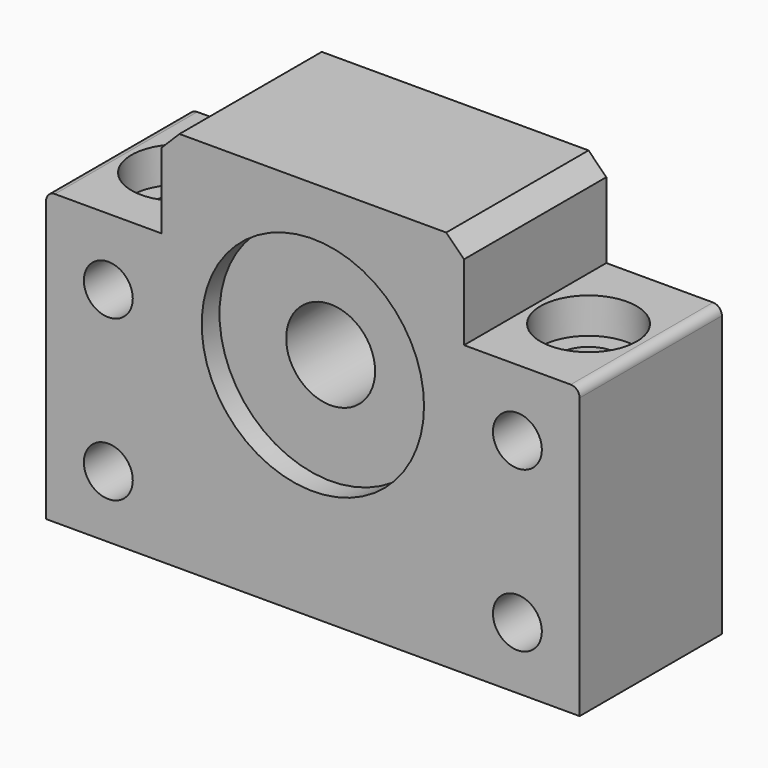
from build123d import *

# Parameters (mm, degrees)
F0_R     = 2.75
F0_R_2   = 12.5
F1_DEPTH = 10
F0_R_3   = 5
F2_DEPTH = 7.5
F3_SIZE  = 2
F4_R     = 1
F5_R     = 3.3
F6_DEPTH = 32.5
F7_R     = 5.4
F7_R_2   = 3.3
F8_DEPTH = 4


with BuildPart() as f1:
    # F0 (on Front) → F1 (new body, symmetric)
    with BuildSketch(Plane.XZ):
        Polygon((-17, 25.6028276384), (-30, 25.6028276384), (-30, -6.8971723616), (30, -6.8971723616), (30, 25.6028276384), (17, 25.6028276384), (17, 36.1028276384), (-17, 36.1028276384), align=None)
        with Locations((-23, 0.1028276384)):
            Circle(F0_R, mode=Mode.SUBTRACT)
        with Locations((23, 0.1028276384)):
            Circle(F0_R, mode=Mode.SUBTRACT)
        with Locations((-23, 18.1028276384)):
            Circle(F0_R, mode=Mode.SUBTRACT)
        with Locations((0, 18.1028276384)):
            Circle(F0_R_2, mode=Mode.SUBTRACT)
        with Locations((23, 18.1028276384)):
            Circle(F0_R, mode=Mode.SUBTRACT)
    extrude(amount=F1_DEPTH, both=True)

    # F0 (on Front) → F2 (join, symmetric)
    with BuildSketch(Plane.XZ):
        with Locations((0, 18.1028276384)):
            Circle(F0_R_2)
        with Locations((0, 18.1028276384)):
            Circle(F0_R_3, mode=Mode.SUBTRACT)
    extrude(amount=F2_DEPTH, both=True)

    # F3
    f3_edges = [f1.edges().sort_by_distance(p)[0] for p in [
        (-17, 0, 36.102828),
        (17, 0, 36.102828),
    ]]
    chamfer(f3_edges, length=F3_SIZE)

    # F4
    f4_edges = [f1.edges().sort_by_distance(p)[0] for p in [
        (-30, 0, 25.602828),
        (30, 0, 25.602828),
    ]]
    fillet(f4_edges, radius=F4_R)

    # F5 (on face) → F6 (cut)
    with BuildSketch(Plane(origin=(0, 0, -6.8971723616), x_dir=(1, 0, 0), z_dir=(0, 0, -1))):
        with Locations((23, 0)):
            Circle(F5_R)
        with Locations((-23, 0)):
            Circle(F5_R)
    extrude(amount=-F6_DEPTH, mode=Mode.SUBTRACT)

    # F7 (on face) → F8 (cut)
    with BuildSketch(Plane.XY.offset(25.6028276384)):
        with Locations((23, 0)):
            Circle(F7_R)
        with Locations((23, 0)):
            Circle(F7_R_2, mode=Mode.SUBTRACT)
        with Locations((-23, 0)):
            Circle(F7_R)
    extrude(amount=-F8_DEPTH, mode=Mode.SUBTRACT)


solid = f1.part
